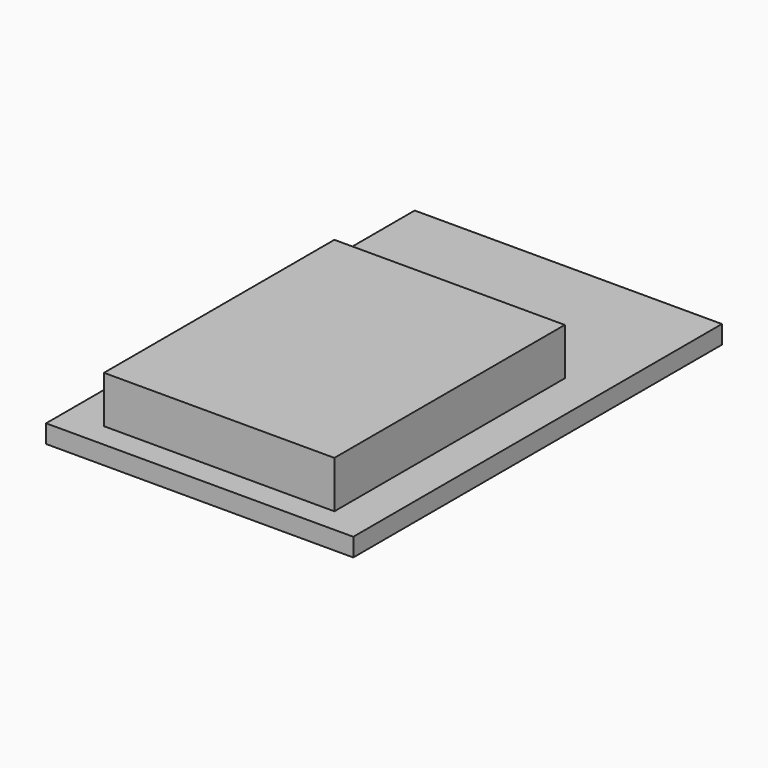
from build123d import *

# Parameters (mm, degrees)
BOX001_W     = 16
BOX001_H     = 24
BOX001_DEPTH = 0.95
BOX_W        = 12
BOX_H        = 15
BOX_DEPTH    = 2.45


with BuildPart() as espboard:
    # Box001 → Box001 (new body)
    with BuildSketch(Plane(origin=(-7.62, -1.27, 1.27), x_dir=(1, 0, 0), z_dir=(0, 0, 1))):
        with Locations((8, 12)):
            Rectangle(BOX001_W, BOX001_H)
    extrude(amount=BOX001_DEPTH)


with BuildPart() as esp8266:
    # Box → Box (new body)
    with BuildSketch(Plane(origin=(-5.62, 0, 2.22), x_dir=(1, 0, 0), z_dir=(0, 0, 1))):
        with Locations((6, 7.5)):
            Rectangle(BOX_W, BOX_H)
    extrude(amount=BOX_DEPTH)

    # Fusion: union ESPBoard
    add(espboard.part)


with BuildPart() as esp8266_1:
    # Fusion placement: moved
    add(esp8266.part.moved(Location((0, 0, 0.3175))))


solid = esp8266_1.part
